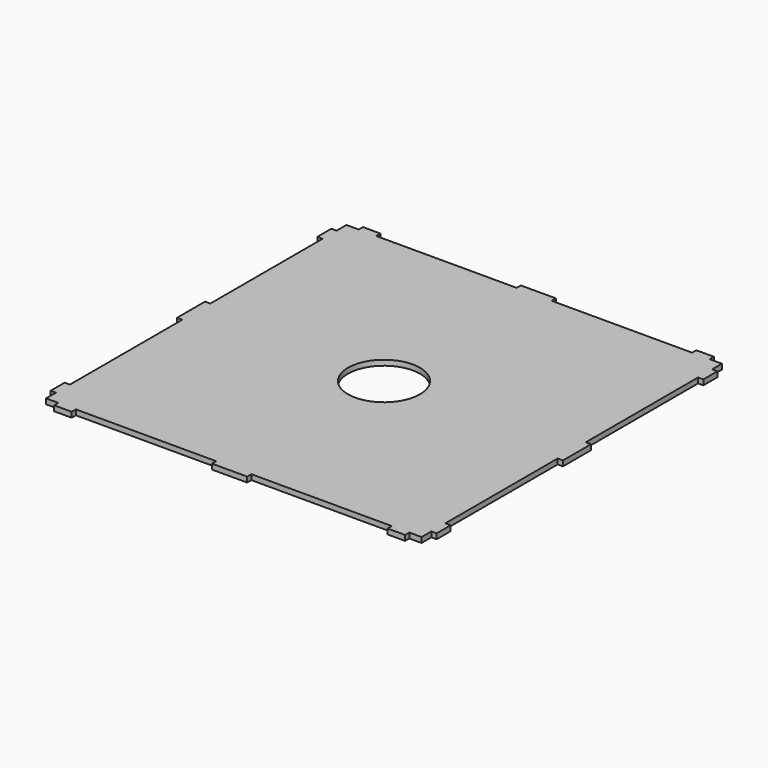
from build123d import *

# Parameters (mm, degrees)
F0_R     = 20.5
F1_DEPTH = 3
F2_W     = 10
F2_H     = 3
F2_W_2   = 3
F2_H_2   = 10
F3_DEPTH = 3


with BuildPart() as f1:
    # F0 (on Top) → F1 (new body)
    with BuildSketch(Plane.XY):
        Polygon((-85.136861, 107.09559), (-107.005506, 107.09559), (-107.005506, -106.90441), (106.994494, -106.90441), (106.994494, 107.09559), align=None)
        with Locations((-0.005506, 0.09559)):
            Circle(F0_R, mode=Mode.SUBTRACT)
    extrude(amount=F1_DEPTH)

    # F2 (on face) → F3 (join)
    with BuildSketch(Plane.XY.offset(3)):
        with Locations((-5.005506, 108.59559)):
            Rectangle(F2_W, F2_H)
        with Locations((4.994494, 108.59559)):
            Rectangle(F2_W, F2_H)
        with Locations((-95.005506, 108.59559)):
            Rectangle(F2_W, F2_H)
        with Locations((94.994494, 108.59559)):
            Rectangle(F2_W, F2_H)
        with Locations((4.994494, -108.40441)):
            Rectangle(F2_W, F2_H)
        with Locations((-5.005506, -108.40441)):
            Rectangle(F2_W, F2_H)
        with Locations((-95.005506, -108.40441)):
            Rectangle(F2_W, F2_H)
        with Locations((94.994494, -108.40441)):
            Rectangle(F2_W, F2_H)
        with Locations((-108.505506, -4.90441)):
            Rectangle(F2_W_2, F2_H_2)
        with Locations((-108.505506, 5.09559)):
            Rectangle(F2_W_2, F2_H_2)
        with Locations((-108.505506, -94.90441)):
            Rectangle(F2_W_2, F2_H_2)
        with Locations((-108.505506, 95.09559)):
            Rectangle(F2_W_2, F2_H_2)
        with Locations((108.494494, 5.09559)):
            Rectangle(F2_W_2, F2_H_2)
        with Locations((108.494494, -4.90441)):
            Rectangle(F2_W_2, F2_H_2)
        with Locations((108.494494, 95.09559)):
            Rectangle(F2_W_2, F2_H_2)
        with Locations((108.494494, -94.90441)):
            Rectangle(F2_W_2, F2_H_2)
    extrude(amount=-F3_DEPTH)


solid = f1.part
